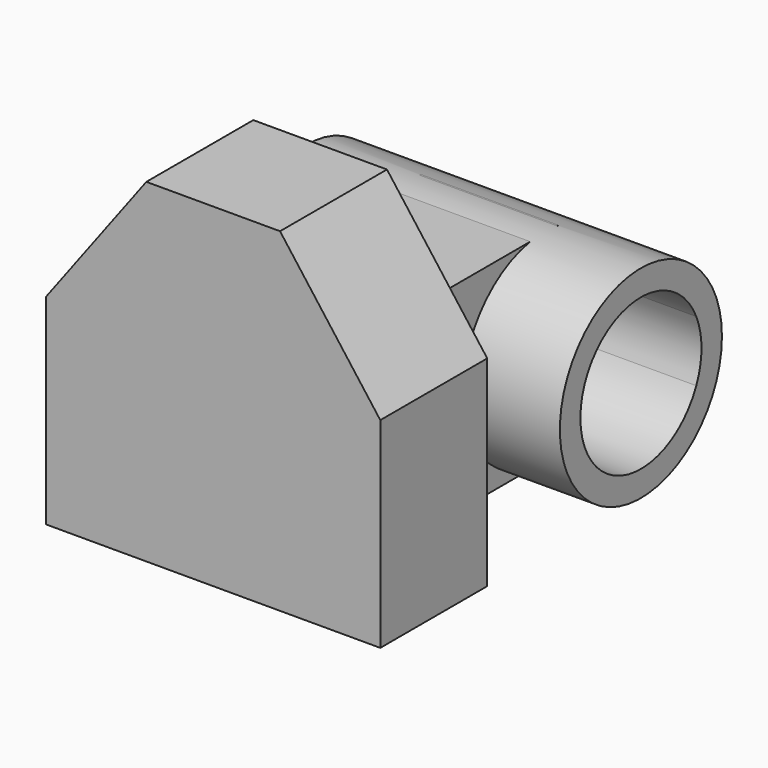
from build123d import *

# Parameters (mm, degrees)
F2_DEPTH = 12.7
F1_R     = 19.240302
F1_R_2   = 14.369807
F3_DEPTH = 63.5
F4_W     = 26.198801
F4_H     = 39.769402
F5_DEPTH = 38.1
F6_R     = 14.197479
F7_DEPTH = 63.501


with BuildPart() as f2:
    # F0 (on Front) → F2 (new body, symmetric)
    with BuildSketch(Plane.XZ):
        Polygon((0, 38.1), (0, 0), (63.5, 0), (63.5, 38.1), (44.45, 63.5), (19.05, 63.5), align=None)
    extrude(amount=F2_DEPTH, both=True)


with BuildPart() as f3:
    # F1 (on Right) → F3 (new body)
    with BuildSketch(Plane.YZ):
        with Locations((49.193431, 19.130778)):
            Circle(F1_R)
        with Locations((49.193431, 19.130778)):
            Circle(F1_R_2, mode=Mode.SUBTRACT)
    extrude(amount=F3_DEPTH)

    # F4 (on Top) → F5 (join)
    with BuildSketch(Plane.XY):
        with Locations((31.947454, 32.79562)):
            Rectangle(F4_W, F4_H)
    extrude(amount=F5_DEPTH)

    # F6 (on Right) → F7 (cut, through all)
    with BuildSketch(Plane.YZ):
        with Locations((49.381908, 19.130778)):
            Circle(F6_R)
    extrude(amount=F7_DEPTH, mode=Mode.SUBTRACT)


solid = Compound([f2.part, f3.part])
